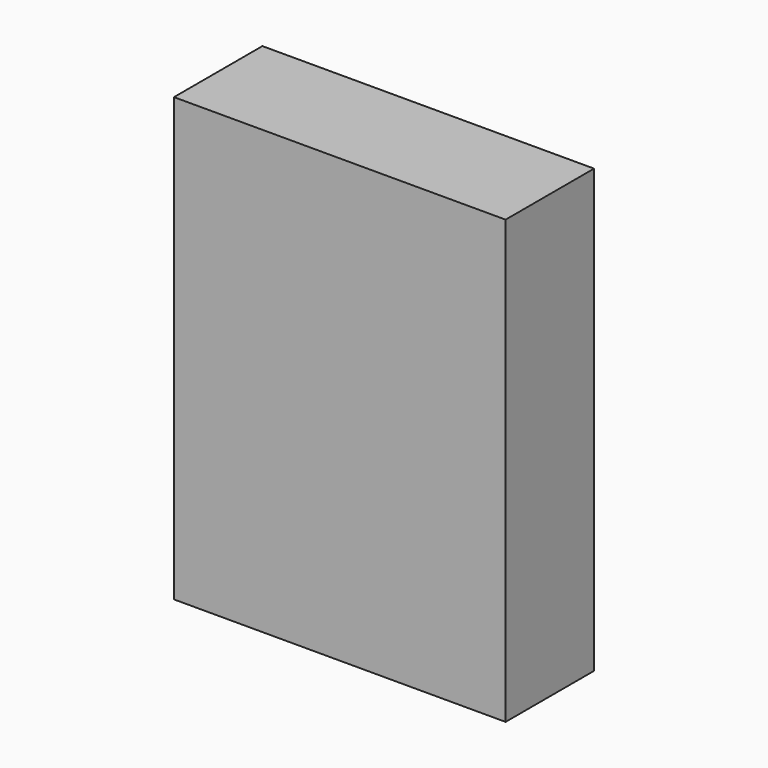
from build123d import *

# Parameters (mm, degrees)
F0_W     = 90
F0_H     = 120
F1_DEPTH = 30
F2_T     = -2.5
F3_R     = 1.55
F4_DEPTH = 25


with BuildPart() as f1:
    # F0 (on Front) → F1 (new body)
    with BuildSketch(Plane.XZ):
        Rectangle(F0_W, F0_H)
    extrude(amount=F1_DEPTH)

    # F2
    f2_openings = [f1.faces().sort_by_distance(p)[0] for p in [
        (0, 0, 0),
    ]]
    offset(amount=F2_T, openings=f2_openings)

    # F3 (on face) → F4 (cut)
    with BuildSketch(Plane(origin=(0, 0, -60), x_dir=(1, 0, 0), z_dir=(0, 0, -1))):
        with Locations((0, 15)):
            Circle(F3_R)
    extrude(amount=-F4_DEPTH, mode=Mode.SUBTRACT)


solid = f1.part
